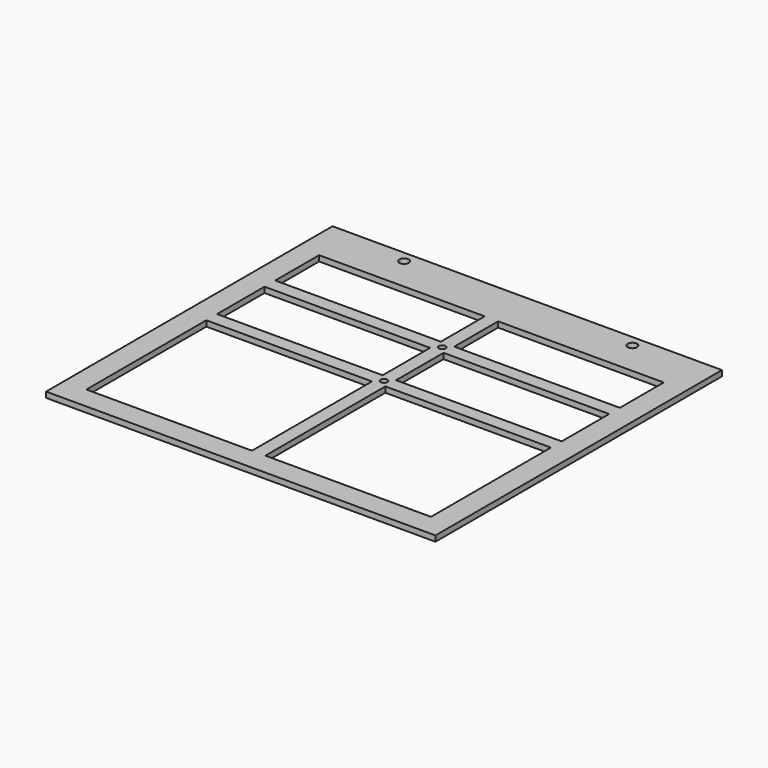
from build123d import *

# Parameters (mm, degrees)
F0_W     = 174
F0_H     = 160
F0_R     = 2.1
F0_W_2   = 6
F0_H_2   = 6
F0_R_2   = 1.5
F0_H_3   = 26.5
F0_W_3   = 74
F1_DEPTH = 2.5


with BuildPart() as f1:
    # F0 (on Top) → F1 (new body)
    with BuildSketch(Plane.XY):
        Rectangle(F0_W, F0_H)
        Polygon((77, -3), (77, -70), (3, -70), (3, -3), (-3, -3), (-3, -70), (-77, -70), (-77, -3), (-77, 3), (-77, 29.5), (-77, 35.5), (-77, 60), (-3, 60), (-3, 35.5), (3, 35.5), (3, 60), (77, 60), (77, 35.5), (77, 29.5), (77, 3), align=None, mode=Mode.SUBTRACT)
        with Locations((-51, 75)):
            Circle(F0_R, mode=Mode.SUBTRACT)
        with Locations((51, 75)):
            Circle(F0_R, mode=Mode.SUBTRACT)
        with Locations((0, 32.5)):
            Rectangle(F0_W_2, F0_H_2)
        with Locations((0, 32.5)):
            Circle(F0_R_2, mode=Mode.SUBTRACT)
        with Locations((0, 16.25)):
            Rectangle(F0_W_2, F0_H_3)
        Rectangle(F0_W_2, F0_H_2)
        Circle(F0_R_2, mode=Mode.SUBTRACT)
        with Locations((40, 0)):
            Rectangle(F0_W_3, F0_H_2)
        with Locations((-40, 0)):
            Rectangle(F0_W_3, F0_H_2)
        with Locations((-40, 32.5)):
            Rectangle(F0_W_3, F0_H_2)
        with Locations((40, 32.5)):
            Rectangle(F0_W_3, F0_H_2)
    extrude(amount=F1_DEPTH)


solid = f1.part
